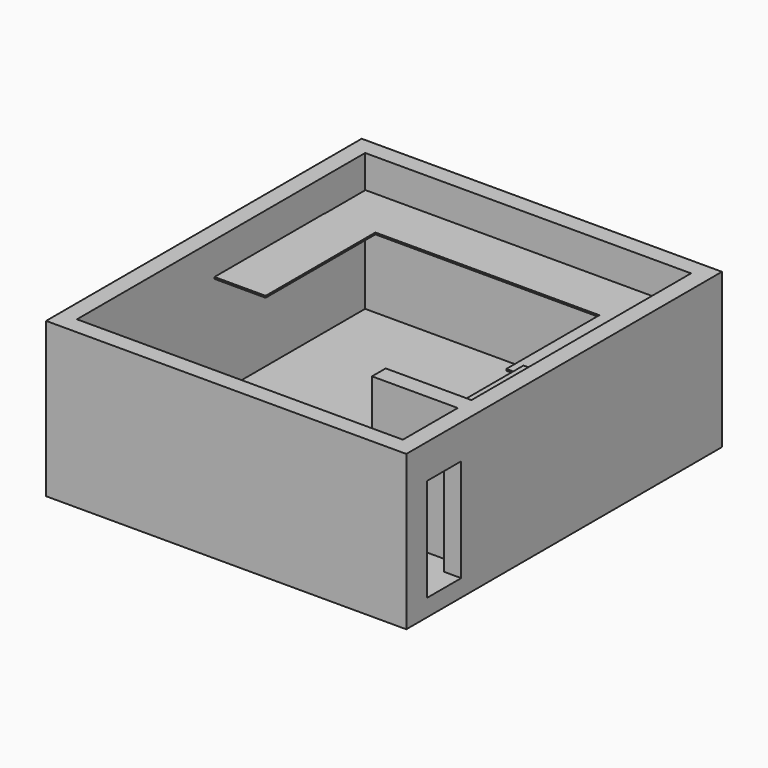
from build123d import *

# Parameters (mm, degrees)
F0_W      = 210
F0_H      = 230
F0_W_2    = 50
F0_H_2    = 10
F1_DEPTH  = 80
F2_W      = 210
F2_H      = 230
F3_DEPTH  = 10
F5_W      = 20
F5_H      = 63
F6_DEPTH  = 1
F7_W      = 19.6074382961
F7_H      = 62.4177437024
F8_DEPTH  = 60
F9_W      = 25
F9_H      = 60
F10_DEPTH = 10
F11_W     = 19.6074382961
F11_H     = 52.7124775872
F12_DEPTH = 5
F13_DEPTH = 5


with BuildPart() as f1:
    # F0 (on Top) → F1 (new body)
    with BuildSketch(Plane.XY):
        with Locations((-9.5208105445, 45.2947338848)):
            Rectangle(F0_W, F0_H)
        Polygon((-104.5208105445, -59.7052661152), (-104.5208105445, 150.2947338848), (85.4791894555, 150.2947338848), (85.4791894555, -9.7052661152), (85.4791894555, -19.7052661152), (85.4791894555, -59.7052661152), (35.4791894555, -59.7052661152), align=None, mode=Mode.SUBTRACT)
        with Locations((60.4791894555, -14.7052661152)):
            Rectangle(F0_W_2, F0_H_2)
    extrude(amount=F1_DEPTH)

    # F2 (on face) → F3 (join)
    with BuildSketch(Plane(origin=(0, 0, 0), x_dir=(1, 0, 0), z_dir=(0, 0, -1))):
        with Locations((-9.5208105445, -45.2947338848)):
            Rectangle(F2_W, F2_H)
        Polygon((-104.5208105445, -150.2947338848), (-104.5208105445, 59.7052661152), (85.4791894555, 59.7052661152), (85.4791894555, 19.7052661152), (35.4791894555, 19.7052661152), (35.4791894555, 9.7052661152), (85.4791894555, 9.7052661152), (85.4791894555, -150.2947338848), align=None, mode=Mode.SUBTRACT)
        Polygon((85.4791894555, 59.7052661152), (-104.5208105445, 59.7052661152), (-104.5208105445, -150.2947338848), (85.4791894555, -150.2947338848), (85.4791894555, 9.7052661152), (35.4791894555, 9.7052661152), (35.4791894555, 19.7052661152), (85.4791894555, 19.7052661152), align=None)
    extrude(amount=F3_DEPTH)

    # F5 (on offset) → F6 (join)
    with BuildSketch(Plane.XY.offset(60)):
        Polygon((85.6644883752, 150.4975861311), (-104.3355116248, 150.4975861311), (-104.3355116248, 120.4975861311), (-74.7061234713, 120.4975861311), (55.8717511594, 120.4975861311), (85.6644883752, 120.4975861311), align=None)
        Polygon((-74.7061234713, 120.4975861311), (-104.3355116248, 120.4975861311), (-104.7061234713, 120.4975861311), (-104.7061234713, 40.4975861311), (-74.7061234713, 40.4975861311), align=None)
        Polygon((85.8717511594, 120.4975861311), (85.6644883752, 120.4975861311), (55.8717511594, 120.4975861311), (55.8717511594, 52.7124775872), (65.8717511594, 52.7124775872), (85.8717511594, 52.7124775872), align=None)
        with Locations((75.8717511594, 21.2124775872)):
            Rectangle(F5_W, F5_H)
    extrude(amount=F6_DEPTH)

    # F7 (on face) → F8 (join)
    with BuildSketch(Plane.XY.offset(61)):
        with Locations((75.6754703075, 21.503605736)):
            Rectangle(F7_W, F7_H)
    extrude(amount=-F8_DEPTH)

    # F9 (on face) → F10 (cut, through all)
    with BuildSketch(Plane.YZ.offset(95.4791894555)):
        with Locations((-42.2052661152, 30)):
            Rectangle(F9_W, F9_H)
    extrude(amount=-F10_DEPTH, mode=Mode.SUBTRACT)

    # F11 (on face) → F12 (join)
    with BuildSketch(Plane.XY.offset(61)):
        with Locations((75.6754703075, 26.3562387936)):
            Rectangle(F11_W, F11_H)
    extrude(amount=F12_DEPTH)

    # F13 (add): a face of the model
    f13_faces = [f1.faces().sort_by_distance(p)[0] for p in [
        (75.6754703075, -4.8526330576, 61),
    ]]
    extrude(f13_faces, amount=F13_DEPTH)


solid = f1.part
